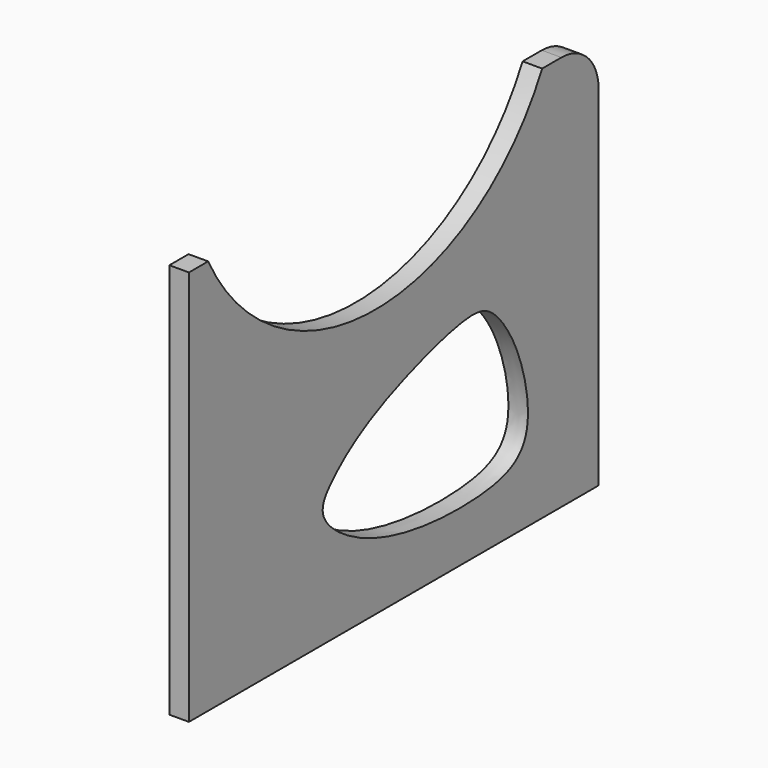
from build123d import *

# Parameters (mm, degrees)
F1_DEPTH = 21


with BuildPart() as f1:
    # F0 (on Right) → F1 (new body)
    with BuildSketch(Plane.YZ):
        with BuildLine():
            Line((0, 425), (0, 0))
            Line((0, 0), (550, 0))
            Line((550, 0), (550, 375))
            ThreePointArc((550, 375), (535.3553390593, 410.3553390593), (500, 425))
            Line((500, 425), (474.2297928465, 425))
            ThreePointArc((474.2297928465, 425), (250, 288), (25.7702071535, 425))
            Line((25.7702071535, 425), (0, 425))
        make_face()
        with BuildLine():
            add(Edge.make_bspline(
                [(180, 123.443134129), (177.8570129588, 132.9249565411), (191.3015483119, 150.6721591343), (222.0560359134, 175.9929332866), (275.5914769823, 204.3997914749), (378.4716453687, 237.1509307337), (412.0932365489, 221.578916876), (444.8749073751, 172.9634837058), (460.599283361, 102.6547436059), (443.680660944, 64.3912488575), (382.5287830953, 49.9135215033), (250.9662879556, 59.0679503493), (183.7734362432, 106.7472551275), (180, 123.443134129)],
                knots=[0, 0, 0, 0, 0.0611061217, 0.1335812263, 0.2271429983, 0.3463497568, 0.4128250979, 0.5004927602, 0.5989807712, 0.6674731924, 0.7548101575, 0.8924024971, 1, 1, 1, 1], degree=3))
        make_face(mode=Mode.SUBTRACT)
    extrude(amount=F1_DEPTH)


solid = f1.part
